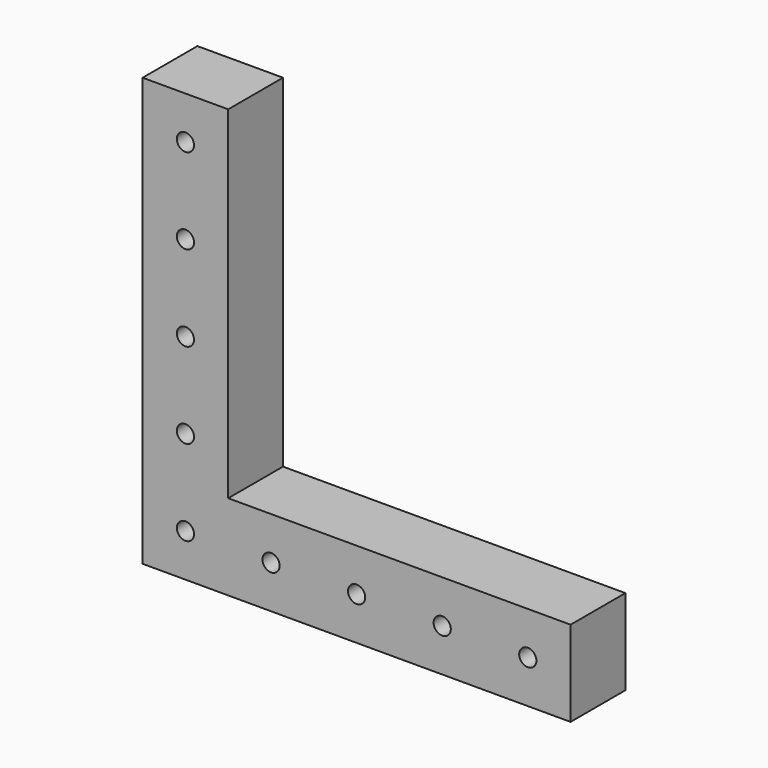
from build123d import *

# Parameters (mm, degrees)
F1_DEPTH = 20.32
F3_D     = 5.1054


with BuildPart() as f1:
    # F0 (on Front) → F1 (new body)
    with BuildSketch(Plane.XZ):
        Polygon((-101.6, 49.388888), (-127, 49.388888), (-127, -77.611112), (0, -77.611112), (0, -52.211112), (-101.6, -52.211112), align=None)
    extrude(amount=F1_DEPTH)

    # F3 (through all)
    with Locations(Plane.XZ.offset(20.32)):
        with Locations((-12.7, -64.911112), (-114.3, -64.911112), (-88.9, -64.911112), (-63.5, -64.911112), (-38.1, -64.911112), (-114.3, 11.288888), (-114.3, -14.111112), (-114.3, -39.511112), (-114.3, 36.688888)):
            Hole(F3_D / 2)


solid = f1.part
